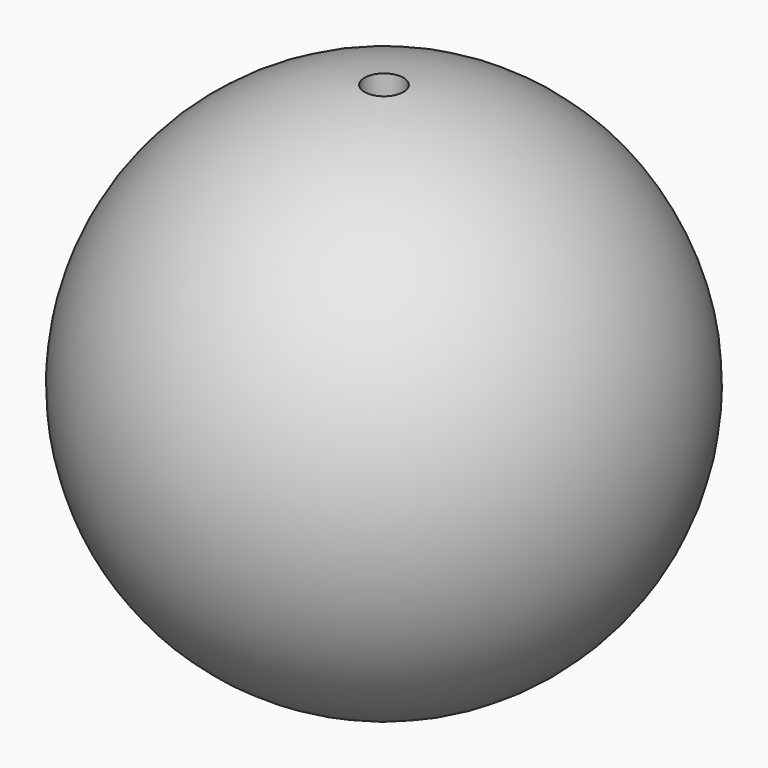
from build123d import *

# Parameters (mm, degrees)
F0_W     = 12.7
F0_H     = 4.7625
F1_DEPTH = 25.4
F2_D     = 3.175
F2_DEPTH = 21.591
F5_D     = 3.175


with BuildPart() as f4:
    # F3 (on Top) → F4 (revolve)
    with BuildSketch(Plane.XY):
        with BuildLine():
            Line((0, -36.2225826497), (0, 0))
            Line((0, 0), (-15.875, 0))
            ThreePointArc((-15.875, 0), (-19.7742959345, -23.2989152245), (0, -36.2225826497))
        make_face()
    revolve(axis=Axis((0, -18.1112913248, 0), (0, -1, 0)))

    # F0 (on Front) → F1 (cut)
    with BuildSketch(Plane.XZ):
        with Locations((6.35, 0)):
            Rectangle(F0_W, F0_H)
        with Locations((-6.35, 0)):
            Rectangle(F0_W, F0_H)
    extrude(amount=F1_DEPTH, mode=Mode.SUBTRACT)

    # F2 (through all, one way)
    with BuildSketch(Plane(origin=(0, 0, 0), x_dir=(1, 0, 0), z_dir=(0, 0, -1))):
        with Locations((0, 14.6325826497)):
            Circle(F2_D / 2)
    extrude(amount=-F2_DEPTH, mode=Mode.SUBTRACT)

    # F5 (through all)
    with Locations(Plane.XY):
        with Locations((0, -14.6325826497)):
            Hole(F5_D / 2)


solid = f4.part
